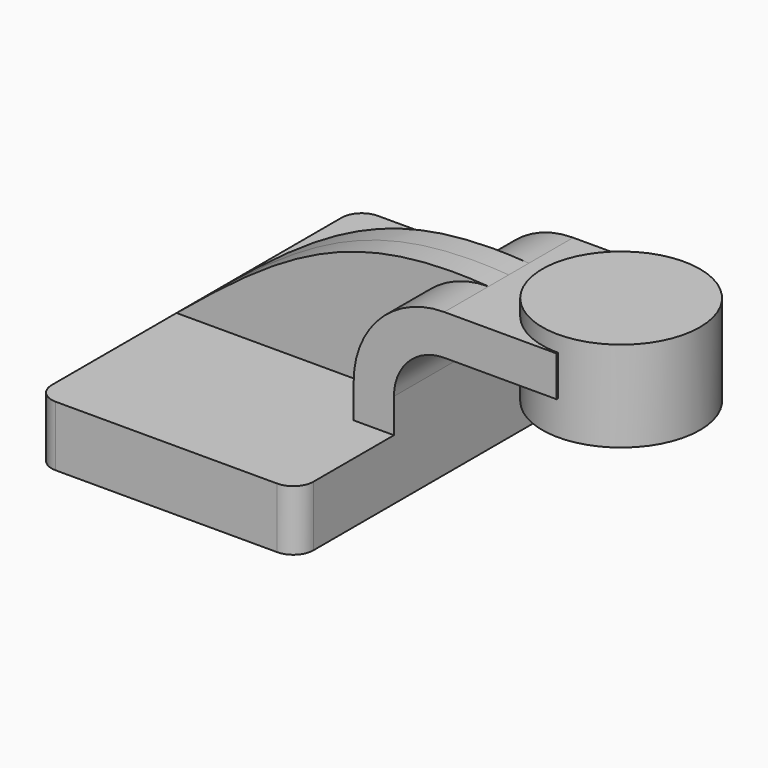
from build123d import *

# Parameters (mm, degrees)
F1_DEPTH = 63.5
F0_W     = 25.9365141169
F0_H     = 12.7
F2_DEPTH = 25.4
F3_DEPTH = 7.9375
F5_R     = 6.35


with BuildPart() as f1:
    # F0 (on Front) → F1 (new body, symmetric)
    with BuildSketch(Plane.XZ):
        Polygon((28.575, 9.525), (-41.275, 9.525), (-41.275, -9.525), (41.275, -9.525), (41.275, 9.525), align=None)
    extrude(amount=F1_DEPTH, both=True)

    # F0 (on Front) → F2 (join, symmetric)
    with BuildSketch(Plane.XZ):
        with BuildLine():
            Line((28.575, 20.32), (28.575, 9.525))
            Line((28.575, 9.525), (41.275, 9.525))
            Line((41.275, 9.525), (41.275, 20.32))
            ThreePointArc((41.275, 20.32), (45.9246798487, 31.5453201513), (57.15, 36.195))
            Line((57.15, 36.195), (66.675, 36.195))
            Line((66.675, 36.195), (66.675, 48.895))
            Line((66.675, 48.895), (57.15, 48.895))
            ThreePointArc((57.15, 48.895), (36.9444237276, 40.5255762724), (28.575, 20.32))
        make_face()
        with Locations((79.6432570585, 42.545)):
            Rectangle(F0_W, F0_H)
    extrude(amount=F2_DEPTH, both=True)

    # F0 (on Front) → F3 (join, symmetric)
    with BuildSketch(Plane.XZ):
        with BuildLine():
            add(Edge.make_bspline(
                [(-41.275, 9.525), (-7.129882928, 37.7731919289), (14.7148529068, 52.0329512656), (57.15, 48.895)],
                knots=[0, 0, 0, 0, 106.0069692284, 106.0069692284, 106.0069692284, 106.0069692284], degree=3))
            Line((-41.275, 9.525), (28.575, 9.525))
            Line((28.575, 9.525), (28.575, 20.32))
            ThreePointArc((28.575, 20.32), (36.9444237276, 40.5255762724), (57.15, 48.895))
        make_face()
    extrude(amount=F3_DEPTH, both=True)

    # F5
    f5_edges = [f1.edges().sort_by_distance(p)[0] for p in [
        (41.275, -63.5, 0),
        (-41.275, -63.5, 0),
        (41.275, 63.5, 0),
        (-41.275, 63.5, 0),
    ]]
    fillet(f5_edges, radius=F5_R)


with BuildPart() as f4:
    # F0 (on Front) → F4 (revolve)
    with BuildSketch(Plane.XZ):
        Polygon((92.6115141169, 53.975), (92.6115141169, 48.895), (92.6115141169, 36.195), (92.6115141169, 25.4), (117.475, 25.4), (117.475, 53.975), align=None)
    revolve(axis=Axis((92.6115141169, 0, 39.6875), (0, 0, 1)))


solid = Compound([f1.part, f4.part])
